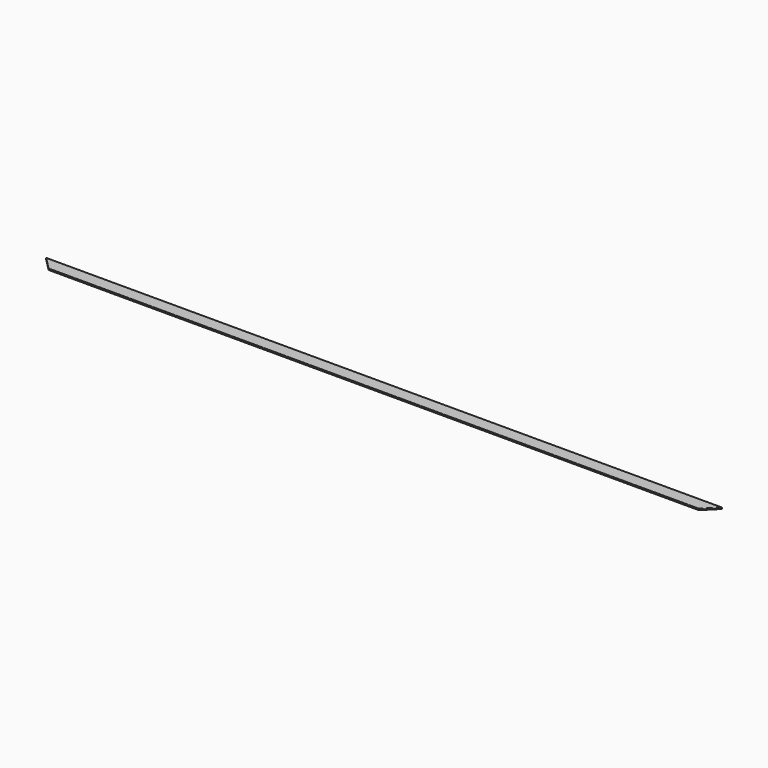
from build123d import *

# Parameters (mm, degrees)
PAD052_DEPTH            = 500
POCKET004_DEPTH         = 1.001
POCKET005_DEPTH         = 1.001
BODY053_PITCH_ANGLE     = -90
BODY053_PLACEMENT_ANGLE = -90


with BuildPart() as part:
    # Sketch061 → Pad052 (new body)
    with BuildSketch(Plane.XZ):
        Polygon((0, 0), (0, 9.5), (1, 9.5), (1, 0), (0.8, 0), (0.8, 9.3), (0.2, 9.3), (0.2, 0), align=None)
    extrude(amount=PAD052_DEPTH)

    # Sketch060 → Pocket004 (cut, through all)
    with BuildSketch(Plane.YZ):
        Polygon((0, 0), (0, 9.5), (-9.5, 0), align=None)
    extrude(amount=POCKET004_DEPTH, mode=Mode.SUBTRACT)

    # Sketch062 → Pocket005 (cut, through all)
    with BuildSketch(Plane.YZ):
        Polygon((-500, 0), (-490.5, 0), (-500, 9.5), align=None)
    extrude(amount=POCKET005_DEPTH, mode=Mode.SUBTRACT)


with BuildPart() as part_1:
    # Body053 pitch: moved
    add(part.part.rotate(Axis((0, 0, 0), (0, 1, 0)), BODY053_PITCH_ANGLE))


with BuildPart() as part_2:
    # Body053 placement: moved
    add(part_1.part.moved(Location((504.546315, -15.421231, 0))).rotate(Axis((504.546315, -15.421231, 0), (0, 0, 1)), BODY053_PLACEMENT_ANGLE))


solid = part_2.part
